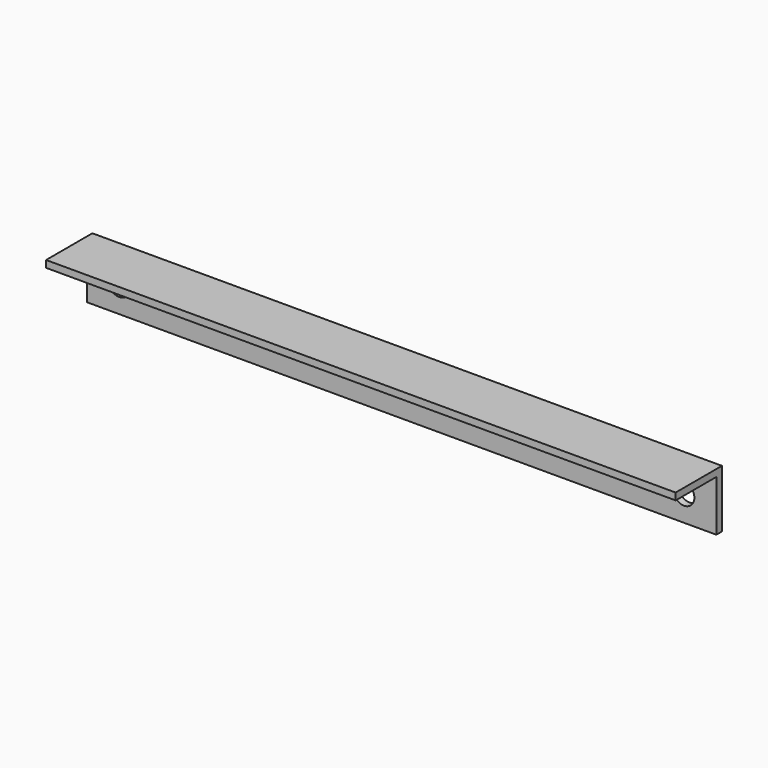
from build123d import *

# Parameters (mm, degrees)
F0_W     = 544
F0_H     = 50
F1_DEPTH = 6
F2_W     = 544
F2_H     = 6
F3_DEPTH = 44
F4_R     = 9
F5_DEPTH = 25


with BuildPart() as f1:
    # F0 (on Front) → F1 (new body)
    with BuildSketch(Plane.XZ):
        with Locations((272, 25)):
            Rectangle(F0_W, F0_H)
    extrude(amount=F1_DEPTH)

    # F2 (on face) → F3 (join)
    with BuildSketch(Plane.XZ.offset(6)):
        with Locations((272, 47)):
            Rectangle(F2_W, F2_H)
    extrude(amount=F3_DEPTH)

    # F4 (on face) → F5 (cut)
    with BuildSketch(Plane(origin=(0, 0, 0), x_dir=(-1, 0, 0), z_dir=(0, 1, 0))):
        with Locations((-516, 22)):
            Circle(F4_R)
        with Locations((-28, 22)):
            Circle(F4_R)
    extrude(amount=-F5_DEPTH, mode=Mode.SUBTRACT)


solid = f1.part
